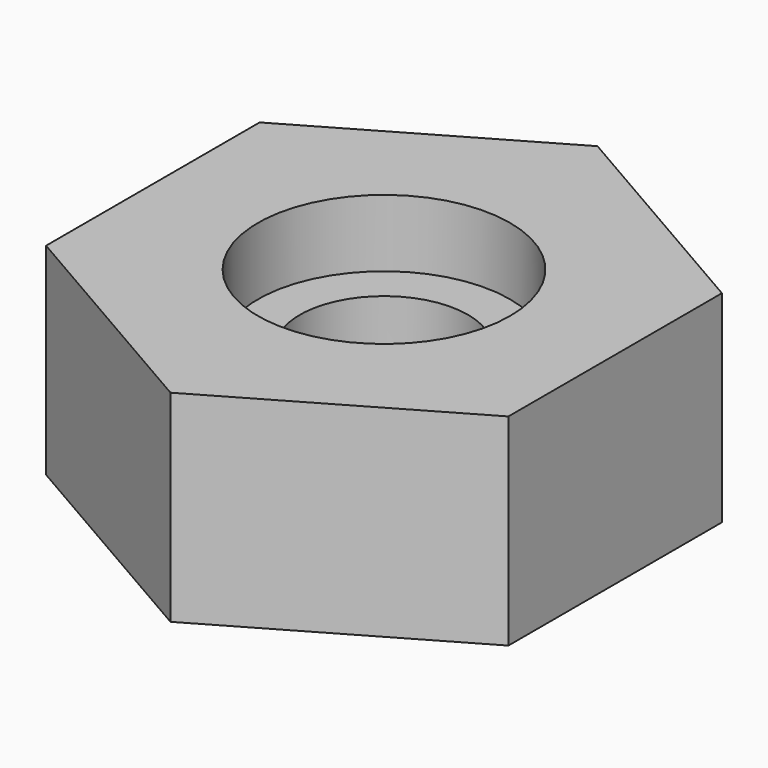
from build123d import *

# Parameters (mm, degrees)
F0_R     = 1
F1_DEPTH = 1.6
F2_R     = 1.5
F3_DEPTH = 2.4


with BuildPart() as f1:
    # F0 (on Top) → F1 (new body)
    with BuildSketch(Plane.XY):
        Polygon((2, -1.154701), (2, 1.154701), (0, 2.309401), (-2, 1.154701), (-2, -1.154701), (0, -2.309401), align=None)
        Circle(F0_R, mode=Mode.SUBTRACT)
    extrude(amount=F1_DEPTH)


with BuildPart() as f3:
    # F2 (on Top) → F3 (new body)
    with BuildSketch(Plane.XY):
        Polygon((2.75, -1.587713), (2.75, 1.587713), (0, 3.175426), (-2.75, 1.587713), (-2.75, -1.587713), (0, -3.175426), align=None)
        Circle(F2_R, mode=Mode.SUBTRACT)
    extrude(amount=F3_DEPTH)


solid = Compound([f1.part, f3.part])
